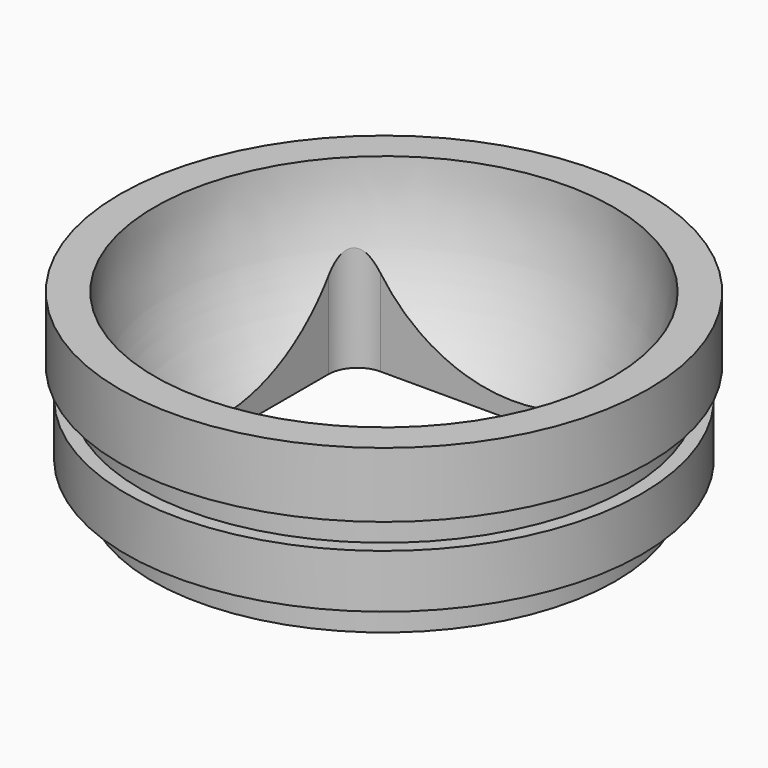
from build123d import *

# Parameters (mm, degrees)
F0_R     = 16
F1_DEPTH = 2.2
F2_R     = 17.8
F3_DEPTH = 3.7
F4_R     = 16.85
F5_DEPTH = 2
F6_R     = 18.25
F7_DEPTH = 4.5
F9_DEPTH = 12.401


with BuildPart() as f1:
    # F0 (on Top) → F1 (new body)
    with BuildSketch(Plane.XY):
        Circle(F0_R)
    extrude(amount=F1_DEPTH)

    # F2 (on face) → F3 (join)
    with BuildSketch(Plane.XY.offset(2.2)):
        Circle(F2_R)
    extrude(amount=F3_DEPTH)

    # F4 (on face) → F5 (join)
    with BuildSketch(Plane.XY.offset(5.9)):
        Circle(F4_R)
    extrude(amount=F5_DEPTH)

    # F6 (on face) → F7 (join)
    with BuildSketch(Plane.XY.offset(7.9)):
        Circle(F6_R)
    extrude(amount=F7_DEPTH)

    # F8 (on face) → F9 (cut, through all)
    with BuildSketch(Plane(origin=(0, 0, 0), x_dir=(1, 0, 0), z_dir=(0, 0, -1))):
        with BuildLine():
            Line((11.2, -9.2), (11.2, 0))
            Line((11.2, 0), (11.2, 9.2))
            ThreePointArc((11.2, 9.2), (10.614214, 10.614214), (9.2, 11.2))
            Line((9.2, 11.2), (-9.2, 11.2))
            ThreePointArc((-9.2, 11.2), (-10.614214, 10.614214), (-11.2, 9.2))
            Line((-11.2, 9.2), (-11.2, -9.2))
            ThreePointArc((-11.2, -9.2), (-10.614214, -10.614214), (-9.2, -11.2))
            Line((-9.2, -11.2), (9.2, -11.2))
            ThreePointArc((9.2, -11.2), (10.614214, -10.614214), (11.2, -9.2))
        make_face()
    extrude(amount=-F9_DEPTH, mode=Mode.SUBTRACT)

    # F10 (on Front) → F11 (revolve, cut)
    with BuildSketch(Plane.XZ):
        with BuildLine():
            Line((0, 12.4), (0, 0))
            Line((0, 0), (0, -3.45))
            ThreePointArc((0, -3.45), (11.207642, 1.192358), (15.85, 12.4))
            ThreePointArc((15.85, 12.4), (11.207642, 23.607642), (0, 28.25))
            Line((0, 28.25), (0, 12.4))
        make_face()
    revolve(axis=Axis((0, 0, 6.2), (0, 0, 1)), mode=Mode.SUBTRACT)


solid = f1.part
